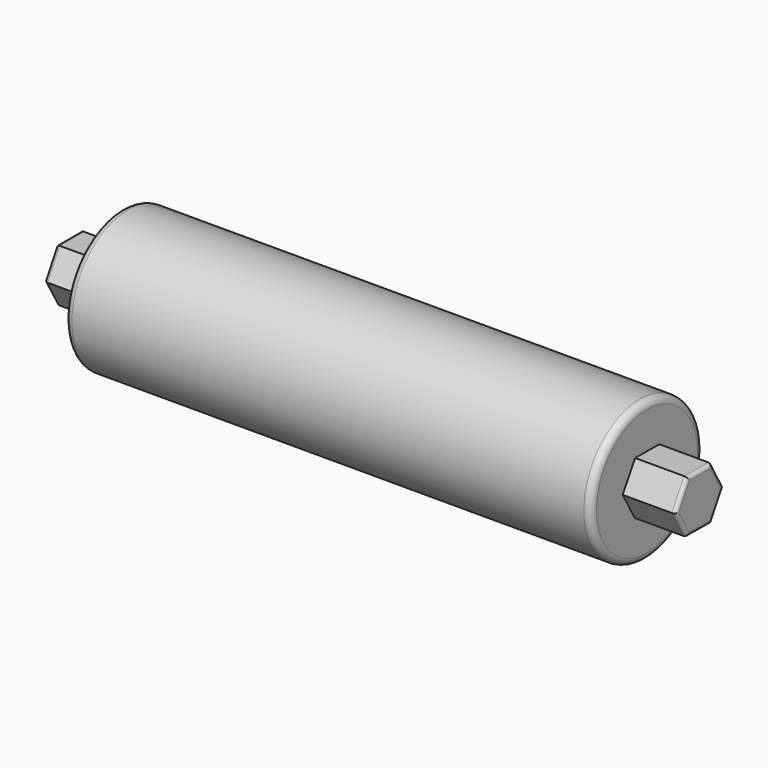
from build123d import *

# Parameters (mm, degrees)
F0_R     = 25.4
F1_DEPTH = 190.5
F3_DEPTH = 19.05
F5_DEPTH = 19.05
F6_R     = 2.54
F7_R     = 2.54
F8_R     = 1.27
F9_R     = 1.27


with BuildPart() as f1:
    # F0 (on Right) → F1 (new body)
    with BuildSketch(Plane.YZ):
        Circle(F0_R)
    extrude(amount=F1_DEPTH)

    # F2 (on face) → F3 (join)
    with BuildSketch(Plane(origin=(0, 0, 0), x_dir=(0, -1, 0), z_dir=(-1, 0, 0))):
        Polygon((5.499261, 9.525), (-5.499261, 9.525), (-10.998523, 0), (-5.499261, -9.525), (5.499261, -9.525), (10.998523, 0), align=None)
    extrude(amount=F3_DEPTH)

    # F4 (on face) → F5 (join)
    with BuildSketch(Plane.YZ.offset(190.5)):
        Polygon((10.998121, -0.093942), (5.580416, 9.477682), (-5.417705, 9.571623), (-10.998121, 0.093942), (-5.580416, -9.477682), (5.417705, -9.571623), align=None)
    extrude(amount=F5_DEPTH)

    # F6
    f6_edges = [f1.edges().sort_by_distance(p)[0] for p in [
        (190.5, -25.4, 0),
    ]]
    fillet(f6_edges, radius=F6_R)

    # F7
    f7_edges = [f1.edges().sort_by_distance(p)[0] for p in [
        (0, -25.4, 0),
    ]]
    fillet(f7_edges, radius=F7_R)

    # F8
    f8_edges = [f1.edges().sort_by_distance(p)[0] for p in [
        (209.55, 8.289269, 4.69187),
        (209.55, 0.081356, 9.524653),
        (209.55, -8.207913, 4.832782),
        (209.55, -8.289269, -4.69187),
        (209.55, -0.081356, -9.524653),
        (209.55, 8.207913, -4.832782),
    ]]
    fillet(f8_edges, radius=F8_R)

    # F9
    f9_edges = [f1.edges().sort_by_distance(p)[0] for p in [
        (-19.05, 0, 9.525),
        (-19.05, 8.248892, 4.7625),
        (-19.05, 8.248892, -4.7625),
        (-19.05, 0, -9.525),
        (-19.05, -8.248892, -4.7625),
        (-19.05, -8.248892, 4.7625),
    ]]
    fillet(f9_edges, radius=F9_R)


solid = f1.part
